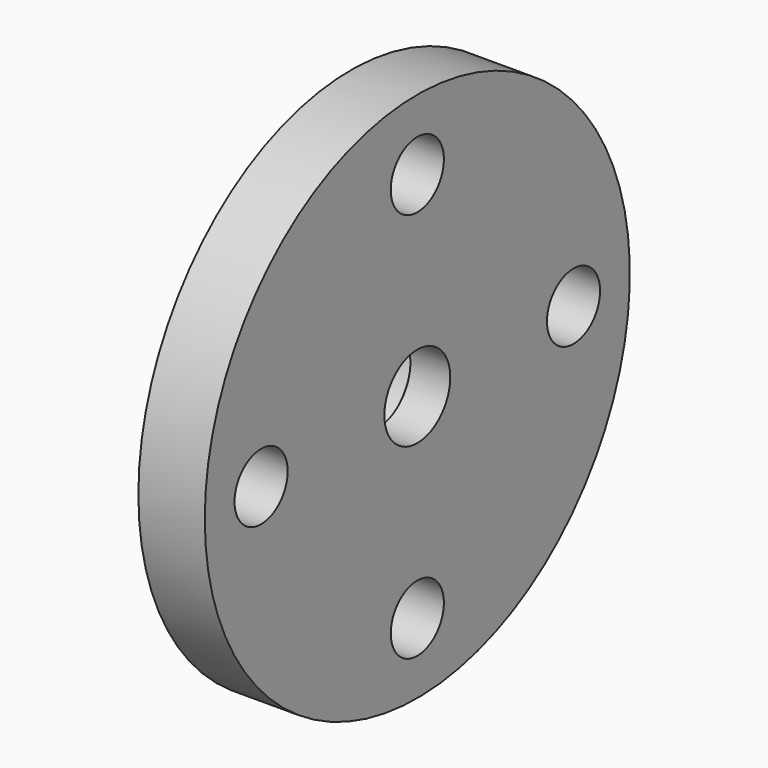
from build123d import *

# Parameters (mm, degrees)
SKETCH041_R             = 10
SKETCH041_R_2           = 1.55
SKETCH041_R_3           = 1.25
PAD036_DEPTH            = 2.5
SKETCH042_R             = 4.5
SKETCH042_R_2           = 3
PAD037_DEPTH            = 2
SKETCH043_R             = 3
POCKET012_DEPTH         = 1
BODY014_PLACEMENT_ANGLE = 180


with BuildPart() as part:
    # Sketch041 → Pad036 (new body)
    with BuildSketch(Plane.YZ):
        Circle(SKETCH041_R)
        Circle(SKETCH041_R_2, mode=Mode.SUBTRACT)
        with Locations((-7.35, 0)):
            Circle(SKETCH041_R_3, mode=Mode.SUBTRACT)
        with Locations((0, -7.35)):
            Circle(SKETCH041_R_3, mode=Mode.SUBTRACT)
        with Locations((7.35, 0)):
            Circle(SKETCH041_R_3, mode=Mode.SUBTRACT)
        with Locations((0, 7.35)):
            Circle(SKETCH041_R_3, mode=Mode.SUBTRACT)
    extrude(amount=PAD036_DEPTH)

    # Sketch042 (on Face8 of Pad036) → Pad037 (join)
    with BuildSketch(Plane.YZ.offset(2.5)):
        Circle(SKETCH042_R)
        Circle(SKETCH042_R_2, mode=Mode.SUBTRACT)
    extrude(amount=PAD037_DEPTH)

    # Sketch043 (on Face10 of Pad037) → Pocket012 (cut)
    with BuildSketch(Plane.YZ.offset(2.5)):
        Circle(SKETCH043_R)
    extrude(amount=-POCKET012_DEPTH, mode=Mode.SUBTRACT)


with BuildPart() as part_1:
    # Body014 placement: moved
    add(part.part.moved(Location((19.2, 11.3, 0))).rotate(Axis((19.2, 11.3, 0), (0, 0, 1)), BODY014_PLACEMENT_ANGLE))


solid = part_1.part
